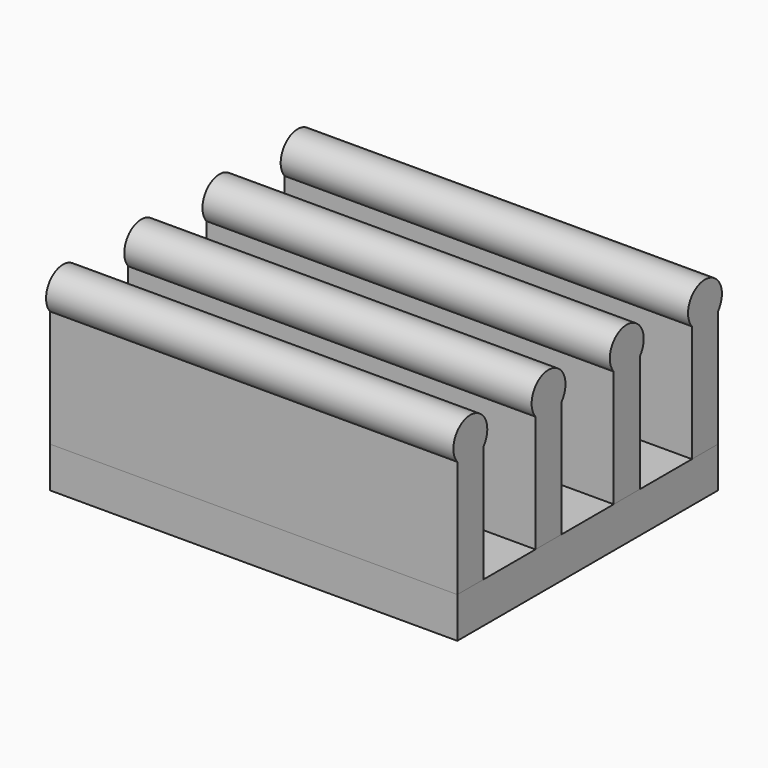
from build123d import *

# Parameters (mm, degrees)
F0_W     = 25
F0_H     = 20
F1_DEPTH = 2.5
F3_DEPTH = 25


with BuildPart() as f1:
    # F0 (on Top) → F1 (new body)
    with BuildSketch(Plane.XY):
        Rectangle(F0_W, F0_H)
    extrude(amount=F1_DEPTH)


with BuildPart() as f3:
    # F2 (on face) → F3 (new body)
    with BuildSketch(Plane.YZ.offset(12.5)):
        with BuildLine():
            Line((-10, 9.6693376137), (-10, 2.5))
            Line((-10, 2.5), (-8, 2.5))
            Line((-8, 2.5), (-8, 9.6693376137))
            ThreePointArc((-8, 9.6693376137), (-9, 9.2), (-10, 9.6693376137))
        make_face()
        with BuildLine():
            ThreePointArc((-7.7, 10.5), (-9.4415880433, 11.7227019261), (-10, 9.6693376137))
            Line((-10, 9.6693376137), (-10, 10.5))
            Line((-10, 10.5), (-8, 10.5))
            Line((-8, 10.5), (-8, 9.6693376137))
            ThreePointArc((-8, 9.6693376137), (-7.7772980739, 10.0584119567), (-7.7, 10.5))
        make_face()
        with BuildLine():
            Line((-10, 10.5), (-10, 9.6693376137))
            ThreePointArc((-10, 9.6693376137), (-9, 9.2), (-8, 9.6693376137))
            Line((-8, 9.6693376137), (-8, 10.5))
            Line((-8, 10.5), (-10, 10.5))
        make_face()
    extrude(amount=-F3_DEPTH)


with BuildPart() as f3b:
    # F2 (on face) → F3, piece 2 (new body)
    with BuildSketch(Plane.YZ.offset(12.5)):
        with BuildLine():
            Line((8, 2.5), (10, 2.5))
            Line((10, 2.5), (10, 9.6693376137))
            ThreePointArc((10, 9.6693376137), (9, 9.2), (8, 9.6693376137))
            Line((8, 9.6693376137), (8, 2.5))
        make_face()
        with BuildLine():
            ThreePointArc((8, 9.6693376137), (9, 9.2), (10, 9.6693376137))
            Line((10, 9.6693376137), (10, 10.5))
            Line((10, 10.5), (8, 10.5))
            Line((8, 10.5), (8, 9.6693376137))
        make_face()
        with BuildLine():
            Line((10, 10.5), (10, 9.6693376137))
            ThreePointArc((10, 9.6693376137), (10.2227019261, 10.0584119567), (10.3, 10.5))
            ThreePointArc((10.3, 10.5), (8.5584119567, 11.7227019261), (8, 9.6693376137))
            Line((8, 9.6693376137), (8, 10.5))
            Line((8, 10.5), (10, 10.5))
        make_face()
    extrude(amount=-F3_DEPTH)


with BuildPart() as f3c:
    # F2 (on face) → F3, piece 3 (new body)
    with BuildSketch(Plane.YZ.offset(12.5)):
        with BuildLine():
            Line((-4, 9.6693376137), (-4, 2.5))
            Line((-4, 2.5), (-2, 2.5))
            Line((-2, 2.5), (-2, 9.6693376137))
            ThreePointArc((-2, 9.6693376137), (-3, 9.2), (-4, 9.6693376137))
        make_face()
        with BuildLine():
            ThreePointArc((-1.7, 10.5), (-3.4415880433, 11.7227019261), (-4, 9.6693376137))
            Line((-4, 9.6693376137), (-4, 10.5))
            Line((-4, 10.5), (-2, 10.5))
            Line((-2, 10.5), (-2, 9.6693376137))
            ThreePointArc((-2, 9.6693376137), (-1.7772980739, 10.0584119567), (-1.7, 10.5))
        make_face()
        with BuildLine():
            Line((-4, 10.5), (-4, 9.6693376137))
            ThreePointArc((-4, 9.6693376137), (-3, 9.2), (-2, 9.6693376137))
            Line((-2, 9.6693376137), (-2, 10.5))
            Line((-2, 10.5), (-4, 10.5))
        make_face()
    extrude(amount=-F3_DEPTH)


with BuildPart() as f3d:
    # F2 (on face) → F3, piece 4 (new body)
    with BuildSketch(Plane.YZ.offset(12.5)):
        with BuildLine():
            Line((2, 9.6693376137), (2, 2.5))
            Line((2, 2.5), (4, 2.5))
            Line((4, 2.5), (4, 9.6693376137))
            ThreePointArc((4, 9.6693376137), (3, 9.2), (2, 9.6693376137))
        make_face()
        with BuildLine():
            ThreePointArc((4.3, 10.5), (2.5584119567, 11.7227019261), (2, 9.6693376137))
            Line((2, 9.6693376137), (2, 10.5))
            Line((2, 10.5), (4, 10.5))
            Line((4, 10.5), (4, 9.6693376137))
            ThreePointArc((4, 9.6693376137), (4.2227019261, 10.0584119567), (4.3, 10.5))
        make_face()
        with BuildLine():
            Line((2, 10.5), (2, 9.6693376137))
            ThreePointArc((2, 9.6693376137), (3, 9.2), (4, 9.6693376137))
            Line((4, 9.6693376137), (4, 10.5))
            Line((4, 10.5), (2, 10.5))
        make_face()
    extrude(amount=-F3_DEPTH)


solid = Compound([f1.part, f3.part, f3b.part, f3c.part, f3d.part])
